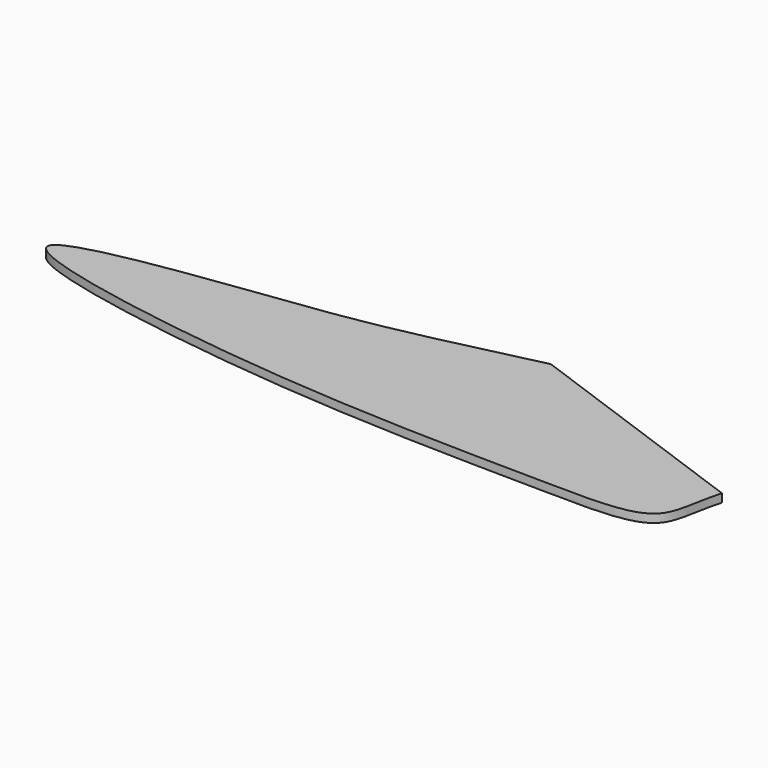
from build123d import *

# Parameters (mm, degrees)
F1_DEPTH = 3.175


with BuildPart() as f1:
    # F0 (on Top) → F1 (new body)
    with BuildSketch(Plane.XY):
        with BuildLine():
            Line((-160.8841803513, 10.4013246693), (-252.9351783305, 43.699789573))
            add(Edge.make_bspline(
                [(-252.9351783305, 43.699789573), (-270.4853922968, 39.5346791043), (-311.1737787915, 29.7435609945), (-347.6251433661, 25.5796412884), (-459.8969041065, 9.9313302662), (-317.1794935262, -16.6516072256), (-215.1377634135, -16.5323981115), (-162.6554363316, -18.0447084856), (-163.8547279425, 0), (-160.8841803513, 10.4013246693)],
                knots=[0, 0, 0, 0, 0.1390094577, 0.2662759252, 0.4143058176, 0.5892394548, 0.7946625904, 0.9101208391, 1, 1, 1, 1], degree=3))
        make_face()
    extrude(amount=F1_DEPTH)


solid = f1.part
